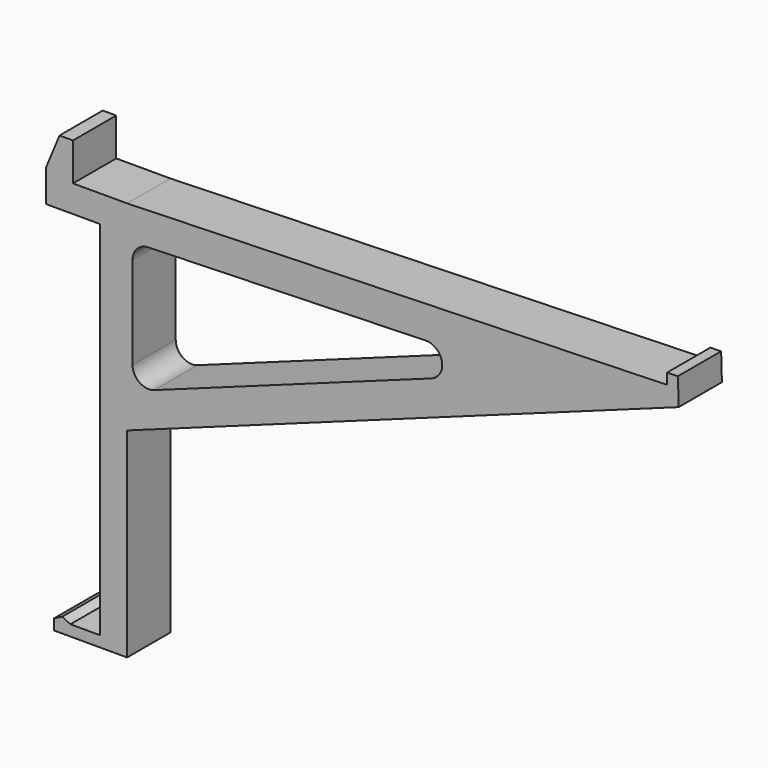
from build123d import *

# Parameters (mm, degrees)
F1_DEPTH = 5
F2_R     = 3


with BuildPart() as f1:
    # F0 (on Front) → F1 (new body, symmetric)
    with BuildSketch(Plane.XZ):
        Polygon((3.840967, 31.405899), (3.840967, -35.594101), (-1.659033, -35.594101), (-3.159033, -34.844101), (-4.659033, -35.594101), (-4.659033, -37.594101), (8.840967, -37.594101), (8.840967, -0.594101), (110.943857, 36.405899), (110.796904, 41.403739), (108.797768, 41.344958), (108.797768, 39.344958), (8.840967, 36.405899), (-1.174301, 36.405899), (-1.174301, 43.405899), (-3.666667, 43.405899), (-6.159033, 37.405899), (-6.159033, 31.405899), align=None)
        Polygon((9.840967, 6.150087), (9.840967, 30.432709), (82.766951, 32.576973), align=None, mode=Mode.SUBTRACT)
    extrude(amount=F1_DEPTH, both=True)

    # F2
    f2_edges = [f1.edges().sort_by_distance(p)[0] for p in [
        (82.766951, 0, 32.576973),
        (9.840967, 0, 30.432709),
        (9.840967, 0, 6.150087),
    ]]
    fillet(f2_edges, radius=F2_R)


solid = f1.part
